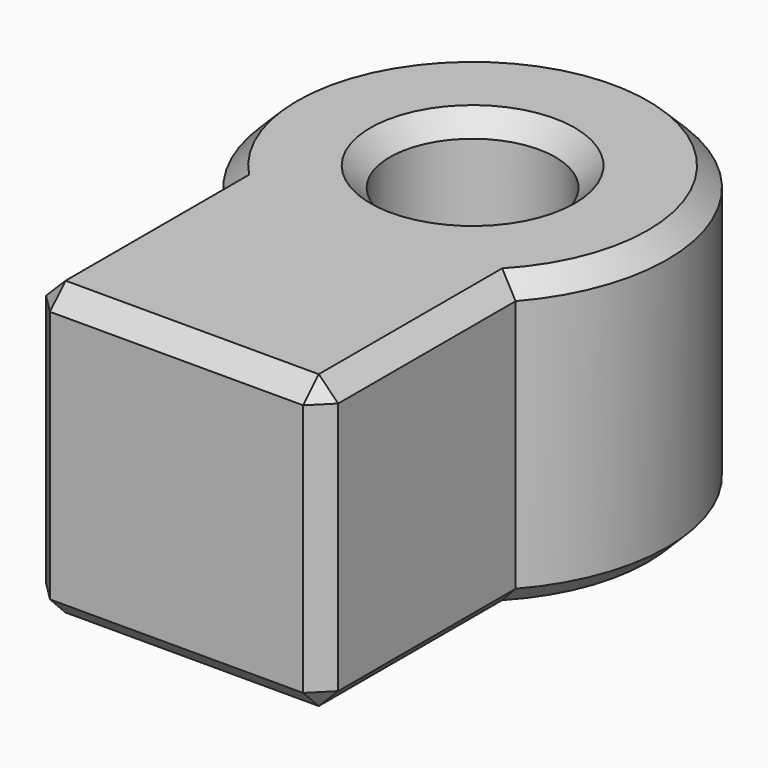
from build123d import *

# Parameters (mm, degrees)
CYLINDER005_R                              = 1.7
CYLINDER005_DEPTH                          = 6
CYLINDER004_R                              = 4
CYLINDER004_DEPTH                          = 6
BOX028_W                                   = 6
BOX028_H                                   = 8
BOX028_DEPTH                               = 6
CHAMFER009008004003002002004004004006_SIZE = 0.4


with BuildPart() as cylinder005:
    # Cylinder005 → Cylinder005 (new body)
    with BuildSketch(Plane.XY):
        Circle(CYLINDER005_R)
    extrude(amount=CYLINDER005_DEPTH)


with BuildPart() as cylinder004:
    # Cylinder004 → Cylinder004 (new body)
    with BuildSketch(Plane.XY):
        Circle(CYLINDER004_R)
    extrude(amount=CYLINDER004_DEPTH)


with BuildPart() as chamfer009008004003002002004004004006:
    # Box028 → Box028 (new body)
    with BuildSketch(Plane(origin=(-3, -7.6, 0), x_dir=(1, 0, 0), z_dir=(0, 0, 1))):
        with Locations((3, 4)):
            Rectangle(BOX028_W, BOX028_H)
    extrude(amount=BOX028_DEPTH)

    # Fusion001004009019: union Cylinder004
    add(cylinder004.part)

    # Cut050: cut Cylinder005
    add(cylinder005.part, mode=Mode.SUBTRACT)

    # Chamfer009008004003002002004004004006
    chamfer009008004003002002004004004006_edges = [chamfer009008004003002002004004004006.edges().sort_by_distance(p)[0] for p in [
        (-3, -5.122876, 6),
        (-3, -5.122876, 0),
        (-3, -7.6, 3),
        (0, -7.6, 0),
        (3, -7.6, 3),
        (0, -7.6, 6),
        (3, -5.122876, 6),
        (3, -5.122876, 0),
        (3.741657, -1.414214, 6),
        (-1.414214, 3.741657, 6),
        (-0.201419, -1.688026, 6),
        (0, 1.7, 6),
        (1.688026, 0.201419, 6),
        (-0.201419, -1.688026, 0),
        (0, 1.7, 0),
        (1.688026, 0.201419, 0),
        (-1.414214, 3.741657, 0),
        (3.741657, -1.414214, 0),
    ]]
    chamfer(chamfer009008004003002002004004004006_edges, length=CHAMFER009008004003002002004004004006_SIZE)


solid = chamfer009008004003002002004004004006.part
